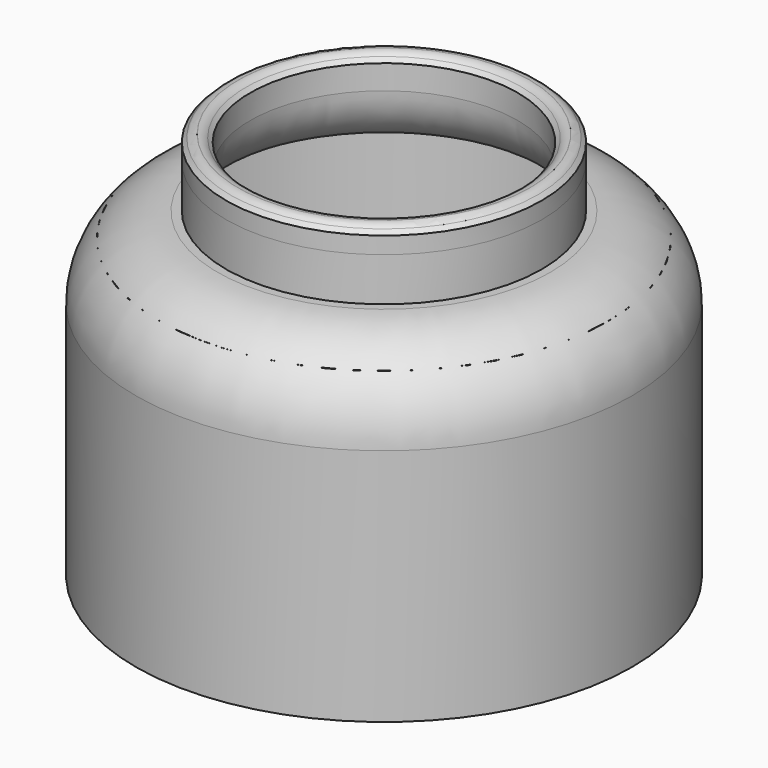
from build123d import *

# Parameters (mm, degrees)
F2_R     = 17.272
F3_DEPTH = 5.08
F4_SIZE  = 1.524
F5_R     = 2.413
F6_R     = 12.7


with BuildPart() as f1:
    # F0 (on Front) → F1 (revolve)
    with BuildSketch(Plane.XZ):
        Polygon((0, 5.08), (0, 0), (47.2628956169, 0), (52.3428956169, 0), (52.3428956169, 67.6072314382), (33.2928956169, 67.6072314382), (33.2928956169, 76.8034979701), (28.2128956169, 76.8034979701), (28.2128956169, 62.5348), (47.2628956169, 62.5348), (47.2628956169, 5.08), align=None)
    revolve(axis=Axis((0, 0, 38.4017489851), (0, 0, 1)))

    # F2
    f2_edges = [f1.edges().sort_by_distance(p)[0] for p in [
        (-52.342896, 0, 67.607231),
    ]]
    fillet(f2_edges, radius=F2_R)

    # F3 (add): a face of the model
    f3_faces = [f1.faces().sort_by_distance(p)[0] for p in [
        (-32.3512303266, 0, 76.8034979701),
    ]]
    extrude(f3_faces, amount=F3_DEPTH)

    # F4
    f4_edges = [f1.edges().sort_by_distance(p)[0] for p in [
        (-28.212896, 0, 81.883498),
        (-33.292896, 0, 81.883498),
    ]]
    chamfer(f4_edges, length=F4_SIZE)

    # F5
    f5_edges = [f1.edges().sort_by_distance(p)[0] for p in [
        (-31.768896, 0, 81.883498),
        (-29.736896, 0, 81.883498),
    ]]
    fillet(f5_edges, radius=F5_R)

    # F6
    f6_edges = [f1.edges().sort_by_distance(p)[0] for p in [
        (-28.212896, 0, 62.5348),
    ]]
    fillet(f6_edges, radius=F6_R)


solid = f1.part
